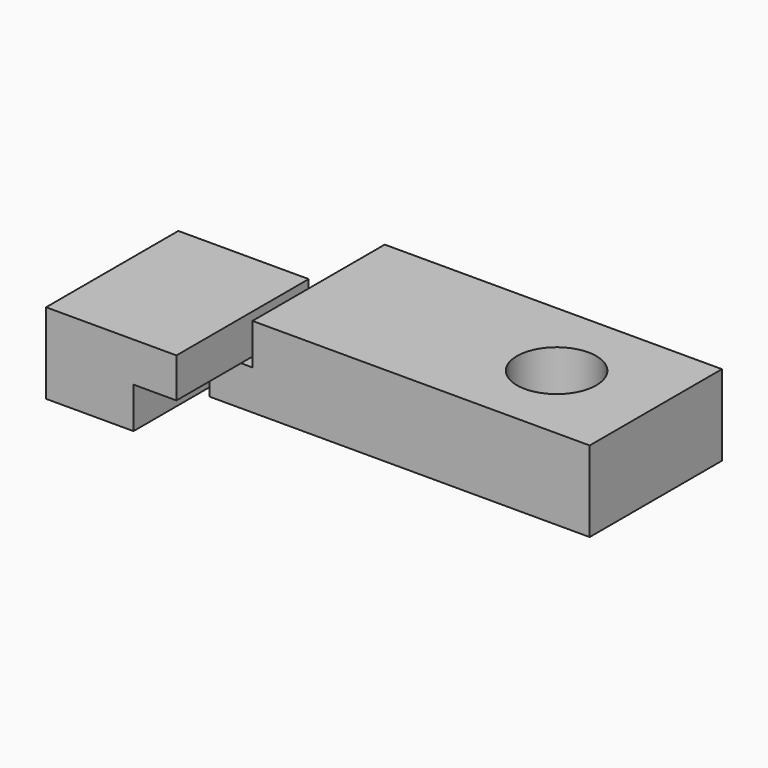
from build123d import *

# Parameters (mm, degrees)
F1_DEPTH = 12.5
F2_R     = 6
F3_DEPTH = 12.201
F5_DEPTH = 25


with BuildPart() as f1:
    # F0 (on Front) → F1 (new body, symmetric)
    with BuildSketch(Plane.XZ):
        Polygon((6.5, -0.1), (0, -0.1), (0, -6.1), (57.5, -6.1), (57.5, 6.1), (6.5, 6.1), align=None)
    extrude(amount=F1_DEPTH, both=True)

    # F2 (on face) → F3 (cut, through all)
    with BuildSketch(Plane.XY.offset(6.1)):
        with Locations((42.5, 0)):
            Circle(F2_R)
    extrude(amount=-F3_DEPTH, mode=Mode.SUBTRACT)


with BuildPart() as f5:
    # F4 (on Front) → F5 (new body)
    with BuildSketch(Plane.XZ):
        Polygon((-1.5, 0.1), (5, 0.1), (5, 6.1), (-14.718099, 6.1), (-14.718099, -6.1), (-1.5, -6.1), align=None)
    extrude(amount=F5_DEPTH)


solid = Compound([f1.part, f5.part])
